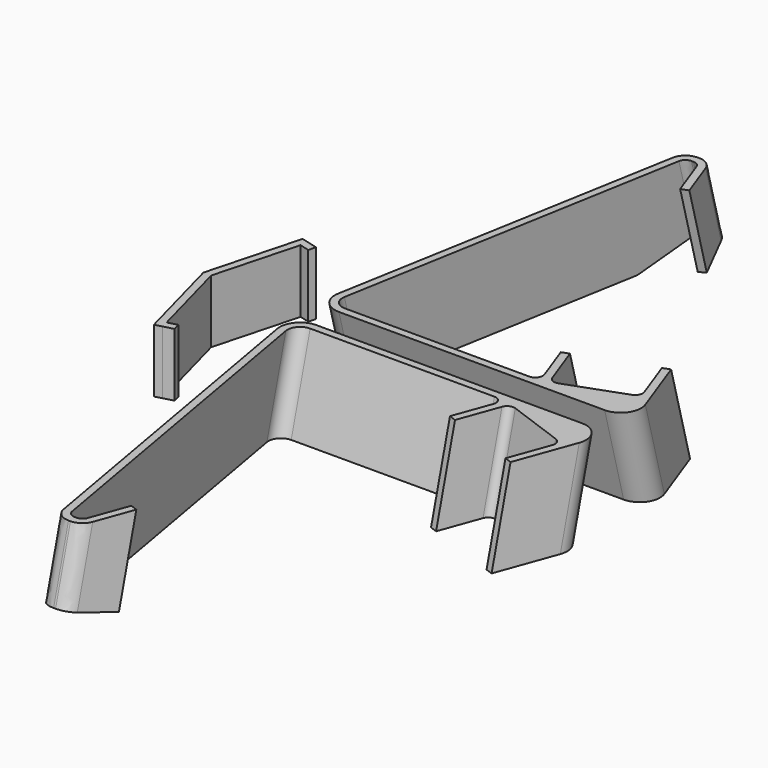
from build123d import *

# Parameters (mm, degrees)
F3_DEPTH      = 24.9160183655
F3_DEPTH_BACK = 96.2892175777
F7_DEPTH      = 25


with BuildPart() as f2:
    # F2: sweep along a path in F1
    with BuildLine(Plane.YZ) as f2_path:
        Line((0, 0), (-9.3782217351, 35))
    # F0 (on Top) → F2 (sweep)
    with BuildSketch(Plane.XY):
        with BuildLine():
            Line((62.1041085521, 6.8451382923), (56.2897661155, 22.8199128457))
            Line((56.2897661155, 22.8199128457), (53.4706882532, 21.7938524157))
            Line((53.4706882532, 21.7938524157), (58.8457249618, 7.02606043))
            ThreePointArc((58.8457249618, 7.02606043), (58.4841032323, 4.2792706909), (56.0266470995, 3))
            Line((56.0266470995, 3), (-16.9150183655, 3))
            ThreePointArc((-16.9150183655, 3), (-20.7452405811, 4.7860619516), (-21.8390571306, 8.8682408883))
            Line((-21.8390571306, 8.8682408883), (2.080174528, 144.520944533))
            ThreePointArc((2.080174528, 144.520944533), (3.106234958, 146.2981333294), (5.0345977871, 147))
            Line((5.0345977871, 147), (5.7987547707, 147))
            ThreePointArc((5.7987547707, 147), (7.5194840798, 146.4574561329), (8.6178326331, 145.02606043))
            Line((8.6178326331, 145.02606043), (14.0213250042, 130.1800871543))
            Line((14.0213250042, 130.1800871543), (16.8404028665, 131.2061475843))
            Line((16.8404028665, 131.2061475843), (11.4369104955, 146.05212086))
            ThreePointArc((11.4369104955, 146.05212086), (9.2402133888, 148.9149122657), (5.7987547707, 150))
            Line((5.7987547707, 150), (5.0345977871, 150))
            ThreePointArc((5.0345977871, 150), (1.1778721289, 148.5962666587), (-0.874248731, 145.041889066))
            Line((-0.874248731, 145.041889066), (-24.7934803896, 9.3891854213))
            ThreePointArc((-24.7934803896, 9.3891854213), (-23.0433739105, 2.8576991225), (-16.9150183655, 0))
            Line((-16.9150183655, 0), (88.2882175777, 0))
            ThreePointArc((88.2882175777, 0), (94.841433932, 3.4113885092), (95.805758544, 10.7361611466))
            Line((95.805758544, 10.7361611466), (87.2996226015, 34.1065775754))
            Line((87.2996226015, 34.1065775754), (84.4805447391, 33.0805171455))
            Line((84.4805447391, 33.0805171455), (90.2948871757, 17.1057425921))
            ThreePointArc((90.2948871757, 17.1057425921), (90.1947326744, 14.8118273769), (88.5018697433, 13.2606042998))
            Line((88.5018697433, 13.2606042998), (65.9492468444, 5.05212086))
            ThreePointArc((65.9492468444, 5.05212086), (63.6553316292, 5.1522753612), (62.1041085521, 6.8451382923))
        make_face()
    sweep(path=f2_path.line)

    # F1 (on Right) → F3 (cut, two sides)
    with BuildSketch(Plane.YZ) as f3_sk:
        Polygon((150, 8.0384757729), (120, 0), (122.588190451, -9.6592582629), (152.588190451, -1.62078249), align=None)
    extrude(amount=-F3_DEPTH, mode=Mode.SUBTRACT)
    extrude(f3_sk.sketch, amount=F3_DEPTH_BACK, mode=Mode.SUBTRACT)


with BuildPart() as f4_1:
    # F4: instance of F2
    add(f2.part.mirror(Plane.XZ))


with BuildPart() as f4_1_1:
    # F5: moved
    add(f4_1.part.moved(Location((0, -30, 0))))


with BuildPart() as f7:
    # F6 (on Top) → F7 (new body)
    with BuildSketch(Plane.XY):
        Polygon((-68.2421543273, 36.8117333157), (-78.1058285412, 0), (-68.2421543273, -36.8117333157), (-65.3443768484, -36.0352761804), (-61.4806735433, -35), (-62.2571306786, -32.1022225211), (-66.1208339837, -33.1374987015), (-75, 0), (-66.1208339837, 33.1374987015), (-62.2571306786, 32.1022225211), (-61.4806735433, 35), (-65.3443768484, 36.0352761804), align=None)
    extrude(amount=F7_DEPTH)


solid = Compound([f2.part, f4_1_1.part, f7.part])
